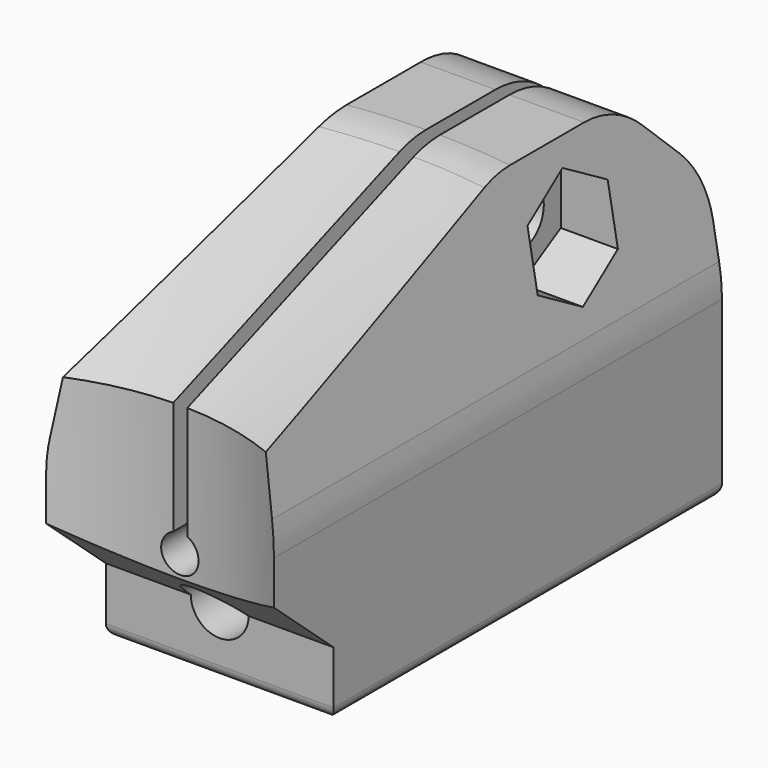
from build123d import *

# Parameters (mm, degrees)
EXTRUDE004_DEPTH                     = 10
SKETCH008_R                          = 3.1
EXTRUDE003_DEPTH                     = 10
EXTRUDE002_DEPTH                     = 2.65
EXTRUDE002_ONTO_SKETCH004_ROLL_ANGLE = 90
EXTRUDE001_DEPTH                     = 14
EXTRUDE_DEPTH                        = 30
EXTRUDE_ONTO_SKETCH_ROLL_ANGLE       = 90
FILLET_R                             = 10
POCKET_DEPTH                         = 20.001
SKETCH003_R                          = 1.55
POCKET001_DEPTH                      = 8
SKETCH005_W                          = 6
SKETCH005_H                          = 4
POCKET002_DEPTH                      = 9.5
SKETCH006_R                          = 4.1
POCKET003_DEPTH                      = 14.35
FILLET001_R                          = 2.5
FILLET002_R                          = 1
FILLET003_R                          = 2.5
FILLET004_R                          = 0.95
CHAMFER_SIZE2                        = 16
CHAMFER_SIZE                         = 6
CHAMFER001_SIZE                      = 5
SKETCH007_R                          = 1.55
POCKET004_DEPTH                      = 5.726
POCKET004_DEPTH_BACK                 = 6.476
FILLET005_R                          = 5
FILLET006_R                          = 0.65


with BuildPart() as extrude004:
    # Sketch009 → Extrude004 (new body)
    with BuildSketch(Plane(origin=(0.375, 0, 0), x_dir=(0, -1, 0), z_dir=(-1, 0, 0))):
        Polygon((-21.182001, 11.641407), (-23.86668, 10.091407), (-23.86668, 6.991407), (-21.182001, 5.441407), (-18.497322, 6.991407), (-18.497322, 10.091407), align=None)
    extrude(amount=-EXTRUDE004_DEPTH)


with BuildPart() as extrude004_1:
    # Extrude004 placement: moved
    add(extrude004.part.moved(Location((2, 0, 0))))


with BuildPart() as extrude003:
    # Sketch008 → Extrude003 (new body)
    with BuildSketch(Plane.YZ.offset(-0.375)):
        with Locations((21.182001, 8.541407)):
            Circle(SKETCH008_R)
    extrude(amount=-EXTRUDE003_DEPTH)


with BuildPart() as extrude003_1:
    # Extrude003 placement: moved
    add(extrude003.part.moved(Location((-2, 0, 0))))


with BuildPart() as extrude002:
    # Sketch004 as drawn → Extrude002 (new)
    with BuildSketch(Plane.XY):
        Polygon((0, -0.237971), (-2.825, -1.868985), (-2.825, -7), (2.825, -7), (2.825, -1.868985), align=None)
    extrude(amount=-EXTRUDE002_DEPTH)


with BuildPart() as extrude002_1:
    # Extrude002 onto Sketch004 roll: moved
    add(extrude002.part.rotate(Axis((0, 0, 0), (1, 0, 0)), EXTRUDE002_ONTO_SKETCH004_ROLL_ANGLE))


with BuildPart() as extrude002_2:
    # Extrude002 onto Sketch004 placement: moved
    add(extrude002_1.part.moved(Location((0, 4, 0))))


with BuildPart() as extrude002_3:
    # Extrude002 placement: moved
    add(extrude002_2.part.moved(Location((0, 3, 0))))


with BuildPart() as extrude001:
    # Sketch001 → Extrude001 (new body)
    with BuildSketch(Plane.YZ):
        Polygon((0, -7), (0, 0), (4, -3.5), (4, -7), align=None)
    extrude(amount=EXTRUDE001_DEPTH)


with BuildPart() as extrude001_1:
    # Extrude001 placement: moved
    add(extrude001.part.moved(Location((-7, 0, 0))))


with BuildPart() as fillet006:
    # Sketch as drawn → Extrude (new)
    with BuildSketch(Plane.XY):
        with BuildLine():
            Line((-6.1, -7), (6.1, -7))
            Line((6.1, -7), (6.1, 3.217039))
            Line((6.1, 3.217039), (4.375, 13))
            Line((4.375, 13), (0.375, 13))
            Line((0.375, 13), (0.375, 0.927025))
            ThreePointArc((-0.375, 0.927025), (0, -1), (0.375, 0.927025))
            Line((-0.375, 0.927025), (-0.375, 13))
            Line((-0.375, 13), (-4.375, 13))
            Line((-4.375, 13), (-6.1, 3.217039))
            Line((-6.1, 3.217039), (-6.1, -7))
        make_face()
    extrude(amount=-EXTRUDE_DEPTH)


with BuildPart() as fillet006_1:
    # Extrude onto Sketch roll: moved
    add(fillet006.part.rotate(Axis((0, 0, 0), (1, 0, 0)), EXTRUDE_ONTO_SKETCH_ROLL_ANGLE))


with BuildPart() as fillet006_2:
    # Extrude onto Sketch placement: moved
    add(fillet006_1.part)

    # Fillet
    fillet_edges = [fillet006_2.edges().sort_by_distance(p)[0] for p in [
        (-6.1, 15, 3.217039),
        (6.1, 15, 3.217039),
    ]]
    fillet(fillet_edges, radius=FILLET_R)

    # Sketch002 → Pocket (cut, through all)
    with BuildSketch(Plane(origin=(0, 0, -7), x_dir=(1, 0, 0), z_dir=(0, 0, -1))):
        with BuildLine():
            Line((-6.1, 0), (6.1, 0))
            ThreePointArc((-6.1, 0), (0, -1.366323), (6.1, 0))
        make_face()
    extrude(amount=-POCKET_DEPTH, mode=Mode.SUBTRACT)

    # Cut: cut Extrude001
    add(extrude001_1.part, mode=Mode.SUBTRACT)

    # Sketch003 → Pocket001 (cut, symmetric)
    with BuildSketch(Plane.XZ.offset(-4)):
        with Locations((0, -3.5)):
            Circle(SKETCH003_R)
    extrude(amount=POCKET001_DEPTH, both=True, mode=Mode.SUBTRACT)

    # Cut001: cut Extrude002
    add(extrude002_3.part, mode=Mode.SUBTRACT)

    # Sketch005 → Pocket002 (cut)
    with BuildSketch(Plane(origin=(0, 0, -7), x_dir=(1, 0, 0), z_dir=(0, 0, -1))):
        with Locations((0, -13.65)):
            Rectangle(SKETCH005_W, SKETCH005_H)
    extrude(amount=-POCKET002_DEPTH, mode=Mode.SUBTRACT)

    # Sketch006 → Pocket003 (cut)
    with BuildSketch(Plane(origin=(0, 30, 0), x_dir=(-1, 0, 0), z_dir=(0, 1, 0))):
        Circle(SKETCH006_R)
    extrude(amount=-POCKET003_DEPTH, mode=Mode.SUBTRACT)

    # Fillet001
    fillet001_edges = [fillet006_2.edges().sort_by_distance(p)[0] for p in [
        (-3, 13.65, 2.5),
        (3, 13.65, 2.5),
    ]]
    fillet(fillet001_edges, radius=FILLET001_R)

    # Fillet002
    fillet002_edges = [fillet006_2.edges().sort_by_distance(p)[0] for p in [
        (-3, 11.65, -3.5),
        (-2.267767, 11.65, 1.767767),
        (-0.4375, 11.65, 2.5),
        (3, 11.65, -3.5),
        (2.267767, 11.65, 1.767767),
        (0.4375, 11.65, 2.5),
    ]]
    fillet(fillet002_edges, radius=FILLET002_R)

    # Fillet003
    fillet003_edges = [fillet006_2.edges().sort_by_distance(p)[0] for p in [
        (0, 15.65, -4.1),
    ]]
    fillet(fillet003_edges, radius=FILLET003_R)

    # Fillet004
    fillet004_edges = [fillet006_2.edges().sort_by_distance(p)[0] for p in [
        (-3, 14.15, -7),
        (0, 15.65, -7),
        (-2.707107, 11.942893, -7),
        (0, 11.65, -7),
        (3, 14.15, -7),
        (2.707107, 11.942893, -7),
        (-2.825, 8.325, -7),
        (0, 7, -7),
        (0, 9.65, -7),
        (2.825, 8.325, -7),
    ]]
    fillet(fillet004_edges, radius=FILLET004_R)

    # Chamfer
    chamfer_edges = [fillet006_2.edges().sort_by_distance(p)[0] for p in [
        (2.399268, 1.16361, 13),
        (-2.399268, 1.16361, 13),
    ]]
    chamfer_side = fillet006_2.faces().sort_by_distance((0, 1.366323, -1.007857))[0]
    chamfer(chamfer_edges, length=CHAMFER_SIZE, length2=CHAMFER_SIZE2, reference=chamfer_side)

    # Chamfer001
    chamfer001_edges = [fillet006_2.edges().sort_by_distance(p)[0] for p in [
        (2.375, 30, 13),
        (-2.375, 30, 13),
    ]]
    chamfer(chamfer001_edges, length=CHAMFER001_SIZE)

    # Sketch007 → Pocket004 (cut, two sides)
    with BuildSketch(Plane.YZ.offset(-0.375)) as pocket004_sk:
        with Locations((21.182001, 8.541407)):
            Circle(SKETCH007_R)
    extrude(amount=-POCKET004_DEPTH, mode=Mode.SUBTRACT)
    extrude(pocket004_sk.sketch, amount=POCKET004_DEPTH_BACK, mode=Mode.SUBTRACT)

    # Fillet005
    fillet005_edges = [fillet006_2.edges().sort_by_distance(p)[0] for p in [
        (2.375, 25, 13),
        (2.380223, 17.272689, 13),
        (2.815817, 30, 8),
        (-2.815817, 30, 8),
        (-2.375, 25, 13),
        (-2.380223, 17.272689, 13),
    ]]
    fillet(fillet005_edges, radius=FILLET005_R)

    # Cut002: cut Extrude003
    add(extrude003_1.part, mode=Mode.SUBTRACT)

    # Cut003: cut Extrude004
    add(extrude004_1.part, mode=Mode.SUBTRACT)

    # Fillet006
    fillet006_edges = [fillet006_2.edges().sort_by_distance(p)[0] for p in [
        (0, 30, -7),
        (6.1, 17, -7),
        (-6.1, 17, -7),
        (0, 4, -7),
    ]]
    fillet(fillet006_edges, radius=FILLET006_R)


solid = fillet006_2.part
